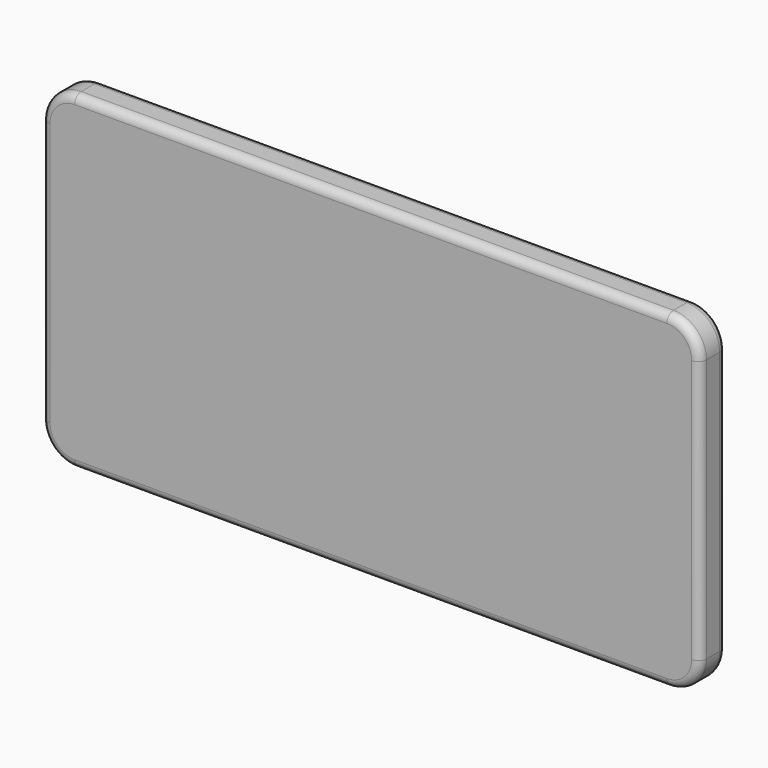
from build123d import *

# Parameters (mm, degrees)
F0_W     = 128
F0_H     = 64
F1_DEPTH = 6.4
F2_R     = 6.4
F3_R     = 1.6


with BuildPart() as f1:
    # F0 (on Front) → F1 (new body)
    with BuildSketch(Plane.XZ):
        Rectangle(F0_W, F0_H)
    extrude(amount=-F1_DEPTH)

    # F2
    f2_edges = [f1.edges().sort_by_distance(p)[0] for p in [
        (64, 3.2, 32),
        (64, 3.2, -32),
        (-64, 3.2, 32),
        (-64, 3.2, -32),
    ]]
    fillet(f2_edges, radius=F2_R)

    # F3
    f3_edges = [f1.edges().sort_by_distance(p)[0] for p in [
        (0, 0, 32),
        (62.125483, 0, 30.125483),
        (-62.125483, 0, 30.125483),
        (64, 0, 0),
        (-64, 0, 0),
        (62.125483, 0, -30.125483),
        (-62.125483, 0, -30.125483),
        (0, 0, -32),
        (0, 6.4, 32),
        (62.125483, 6.4, 30.125483),
        (-62.125483, 6.4, 30.125483),
        (64, 6.4, 0),
        (-64, 6.4, 0),
        (62.125483, 6.4, -30.125483),
        (-62.125483, 6.4, -30.125483),
        (0, 6.4, -32),
    ]]
    fillet(f3_edges, radius=F3_R)


solid = f1.part
